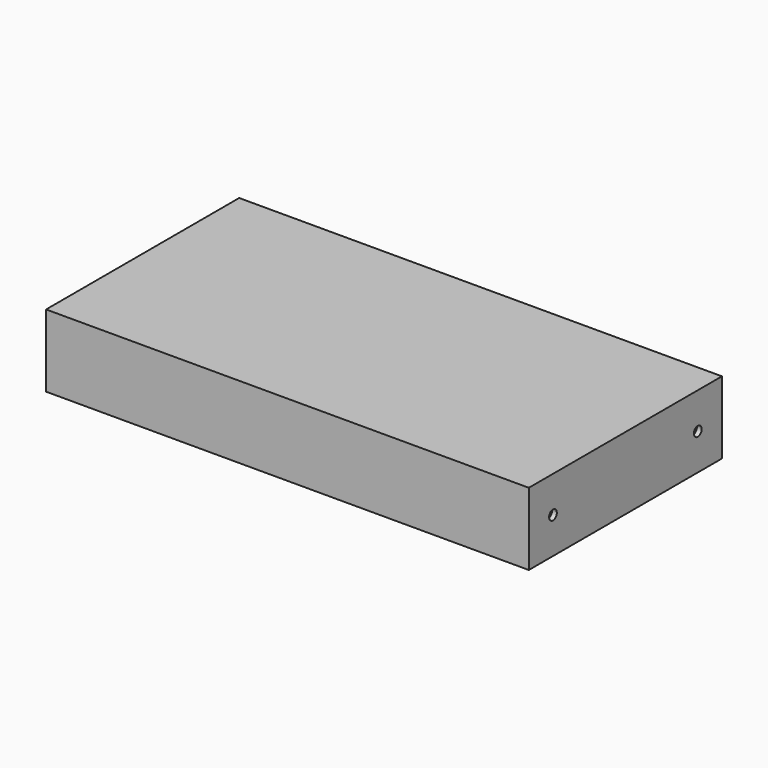
from build123d import *

# Parameters (mm, degrees)
F0_W                 = 400
F0_H                 = 200
F1_DEPTH             = 3.6
F3_W                 = 400
F3_H                 = 200
F3_W_2               = 380
F3_H_2               = 180
F4_DEPTH             = 56.4
F7_D                 = 4.2
F7_DEPTH             = 12
F7_CBORE_D           = 8
F7_CBORE_DEPTH       = 4
F7_TIP               = 1.2618073
F7_ON_F5_D           = 4.2
F7_ON_F5_DEPTH       = 12
F7_ON_F5_CBORE_D     = 8
F7_ON_F5_CBORE_DEPTH = 4
F7_ON_F5_TIP         = 1.2618073


with BuildPart() as f1:
    # F0 (on Top) → F1 (new body)
    with BuildSketch(Plane.XY):
        Rectangle(F0_W, F0_H)
    extrude(amount=-F1_DEPTH)

    # F3 (on offset) → F4 (join, through all)
    with BuildSketch(Plane.XY.offset(-60)):
        Rectangle(F3_W, F3_H)
        Rectangle(F3_W_2, F3_H_2, mode=Mode.SUBTRACT)
    extrude(amount=F4_DEPTH)

    # F7
    with Locations(Plane(origin=(-200, 0, 0), x_dir=(0, -1, 0), z_dir=(-1, 0, 0))):
        with Locations((-75, -30), (75, -30)):
            CounterBoreHole(F7_D / 2, F7_CBORE_D / 2, F7_CBORE_DEPTH, depth=F7_DEPTH)
            with Locations((0, 0, -(F7_DEPTH + F7_TIP / 2))):  # 118° drill point
                Cone(0, F7_D / 2, F7_TIP, mode=Mode.SUBTRACT)

    # F7 on F5
    with Locations(Plane.YZ.offset(200)):
        with Locations((75, -30), (-75, -30)):
            CounterBoreHole(F7_ON_F5_D / 2, F7_ON_F5_CBORE_D / 2, F7_ON_F5_CBORE_DEPTH, depth=F7_ON_F5_DEPTH)
            with Locations((0, 0, -(F7_ON_F5_DEPTH + F7_ON_F5_TIP / 2))):  # 118° drill point
                Cone(0, F7_ON_F5_D / 2, F7_ON_F5_TIP, mode=Mode.SUBTRACT)


solid = f1.part
